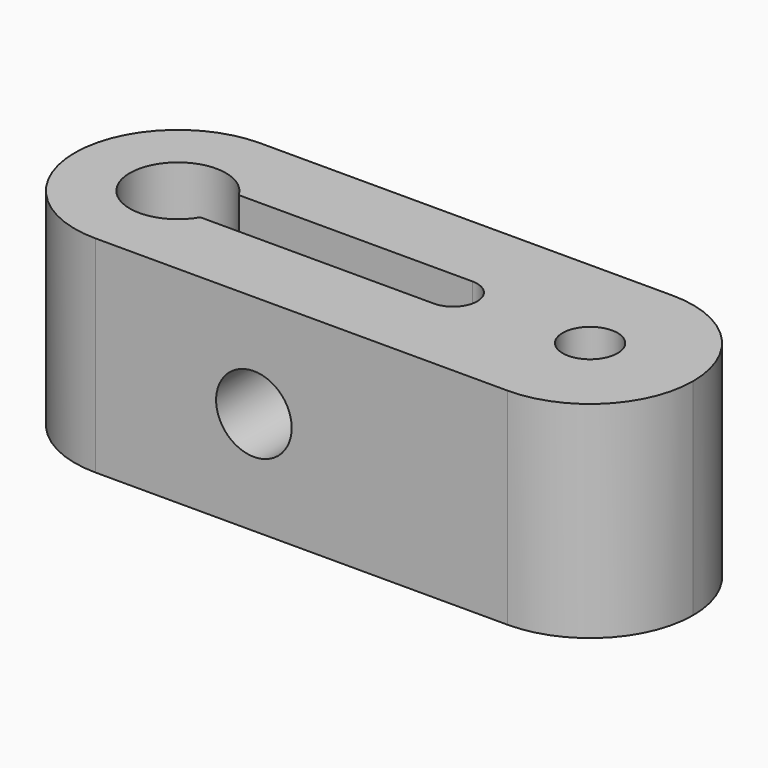
from build123d import *

# Parameters (mm, degrees)
F0_R     = 2
F1_DEPTH = 15
F2_R     = 2.75
F3_DEPTH = 15.001


with BuildPart() as f1:
    # F0 (on Top) → F1 (new body)
    with BuildSketch(Plane.XY):
        with BuildLine():
            ThreePointArc((7.292976, 1.75), (4.643544, 5.889609), (0, 7.5))
            ThreePointArc((0, 7.5), (-7.5, 0), (0, -7.5))
            ThreePointArc((0, -7.5), (4.643544, -5.889609), (7.292976, -1.75))
            Line((7.292976, -1.75), (3.031089, -1.75))
            ThreePointArc((3.031089, -1.75), (-3.5, 0), (3.031089, 1.75))
            Line((3.031089, 1.75), (7.292976, 1.75))
        make_face()
        with BuildLine():
            ThreePointArc((30, -7.5), (22.5, 0), (30, 7.5))
            Line((30, 7.5), (0, 7.5))
            ThreePointArc((0, 7.5), (4.643544, 5.889609), (7.292976, 1.75))
            Line((7.292976, 1.75), (20.031089, 1.75))
            ThreePointArc((20.031089, 1.75), (21.781089, 0), (20.031089, -1.75))
            Line((20.031089, -1.75), (7.292976, -1.75))
            ThreePointArc((7.292976, -1.75), (4.643544, -5.889609), (0, -7.5))
            Line((0, -7.5), (30, -7.5))
        make_face()
        with BuildLine():
            ThreePointArc((30, -7.5), (35.303301, -5.303301), (37.5, 0))
            ThreePointArc((37.5, 0), (35.303301, 5.303301), (30, 7.5))
            ThreePointArc((30, 7.5), (22.5, 0), (30, -7.5))
        make_face()
        with Locations((30, 0)):
            Circle(F0_R, mode=Mode.SUBTRACT)
    extrude(amount=F1_DEPTH)

    # F2 (on face) → F3 (cut, through all)
    with BuildSketch(Plane.XZ.offset(7.5)):
        with Locations((11.531089, 7.5)):
            Circle(F2_R)
    extrude(amount=-F3_DEPTH, mode=Mode.SUBTRACT)


solid = f1.part
